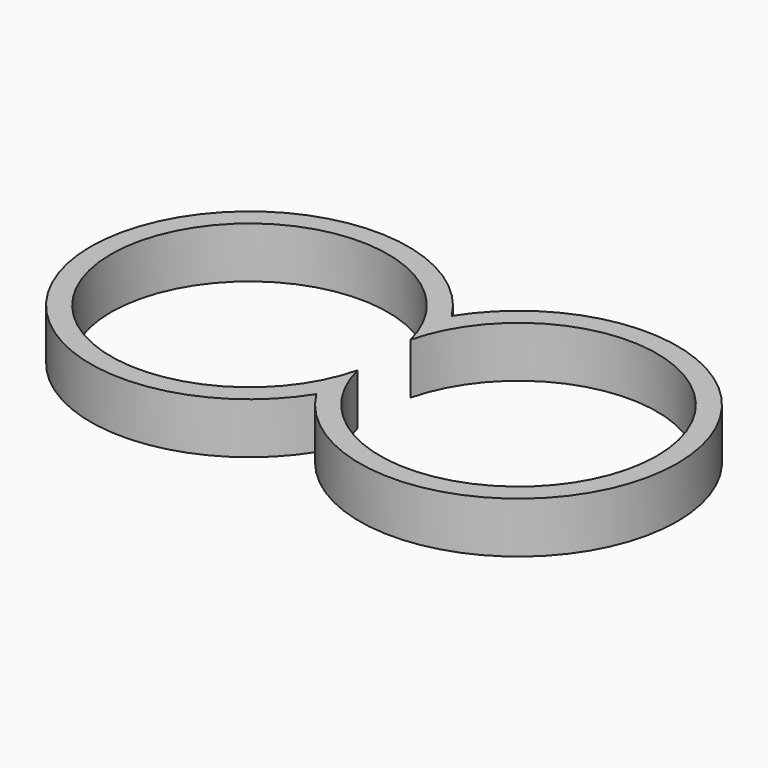
from build123d import *

# Parameters (mm, degrees)
F1_DEPTH = 6.35


with BuildPart() as f1:
    # F0 (on Top) → F1 (new body)
    with BuildSketch(Plane.XY):
        with BuildLine():
            ThreePointArc((-36.102896, 32.094738), (0.409604, 42.622149), (-36.102896, 53.14956))
            ThreePointArc((-36.102896, 53.14956), (-72.615396, 42.622149), (-36.102896, 32.094738))
        make_face()
        with BuildLine():
            ThreePointArc((-36.102896, 46.72417), (-2.130396, 42.622149), (-36.102896, 38.520128))
            ThreePointArc((-36.102896, 38.520128), (-70.075396, 42.622149), (-36.102896, 46.72417))
        make_face(mode=Mode.SUBTRACT)
    extrude(amount=F1_DEPTH)


solid = f1.part
